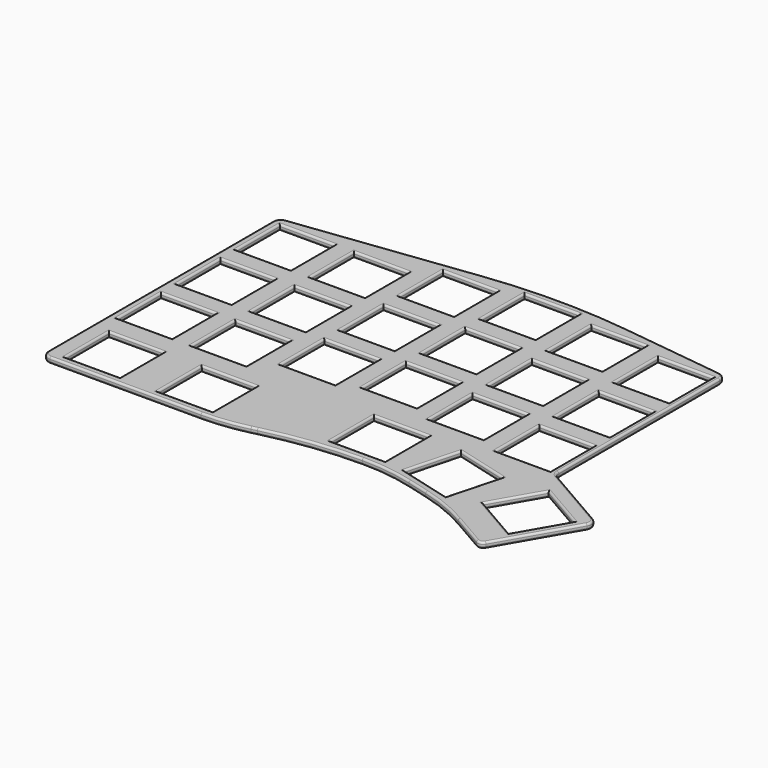
from build123d import *

# Parameters (mm, degrees)
SKETCH_W  = 14
SKETCH_H  = 14
PAD_DEPTH = 1.5
FILLET_R  = 0.5


with BuildPart() as part:
    # Sketch → Pad (new body)
    with BuildSketch(Plane.XY):
        with BuildLine():
            ThreePointArc((48.62709, -13.351208), (48.895039, -14.351208), (49.62709, -15.083258))
            Line((66.435088, -24.787361), (49.62709, -15.083258))
            ThreePointArc((67.167139, -27.519412), (67.36694, -26.001774), (66.435088, -24.787361))
            Line((67.167139, -27.519412), (56.328837, -46.291901))
            ThreePointArc((54.279799, -46.84094), (55.418027, -46.99079), (56.328837, -46.291901))
            Line((54.279799, -46.84094), (45.622406, -41.842592))
            ThreePointArc((45.622406, -41.842592), (39.580603, -38.863104), (33.201587, -36.69772))
            Line((27.717524, -35.22827), (33.201587, -36.69772))
            ThreePointArc((27.717524, -35.22827), (21.110442, -33.914039), (14.388344, -33.47345))
            ThreePointArc((14.388344, -33.47345), (2.059838, -34.220472), (-10.087195, -36.456465))
            Line((-11.463942, -36.797818), (-10.087195, -36.456465))
            ThreePointArc((-23.135716, -38.2232), (-17.256473, -37.865536), (-11.463942, -36.797818))
            Line((-23.135716, -38.2232), (-61.87291, -38.2232))
            ThreePointArc((-63.87291, -36.2232), (-63.287124, -37.637413), (-61.87291, -38.2232))
            Line((-63.87291, -36.2232), (-63.87291, 35.731795))
            ThreePointArc((-62.120967, 37.716353), (-63.372262, 37.055405), (-63.87291, 35.731795))
            Line((-62.120967, 37.716353), (-16.291114, 43.444783))
            ThreePointArc((20.545293, 43.444783), (2.12709, 44.591399), (-16.291114, 43.444783))
            Line((20.545293, 43.444783), (46.875146, 40.153724))
            ThreePointArc((48.62709, 38.169167), (48.126442, 39.492777), (46.875146, 40.153724))
            Line((48.62709, 38.169167), (48.62709, -13.351208))
        make_face()
        with Locations((2.12709, 35.56339)):
            Rectangle(SKETCH_W, SKETCH_H, mode=Mode.SUBTRACT)
        with Locations((-16.87291, 33.188515)):
            Rectangle(SKETCH_W, SKETCH_H, mode=Mode.SUBTRACT)
        with Locations((21.12709, 33.188515)):
            Rectangle(SKETCH_W, SKETCH_H, mode=Mode.SUBTRACT)
        with Locations((40.12709, 30.81364)):
            Rectangle(SKETCH_W, SKETCH_H, mode=Mode.SUBTRACT)
        with Locations((-54.87291, 28.438765)):
            Rectangle(SKETCH_W, SKETCH_H, mode=Mode.SUBTRACT)
        with Locations((-35.87291, 28.438765)):
            Rectangle(SKETCH_W, SKETCH_H, mode=Mode.SUBTRACT)
        with Locations((2.12709, 16.56439)):
            Rectangle(SKETCH_W, SKETCH_H, mode=Mode.SUBTRACT)
        with Locations((-16.87291, 14.189515)):
            Rectangle(SKETCH_W, SKETCH_H, mode=Mode.SUBTRACT)
        with Locations((21.12709, 14.189515)):
            Rectangle(SKETCH_W, SKETCH_H, mode=Mode.SUBTRACT)
        with Locations((40.12709, 11.81464)):
            Rectangle(SKETCH_W, SKETCH_H, mode=Mode.SUBTRACT)
        with Locations((-54.87291, 9.439765)):
            Rectangle(SKETCH_W, SKETCH_H, mode=Mode.SUBTRACT)
        with Locations((-35.87291, 9.439765)):
            Rectangle(SKETCH_W, SKETCH_H, mode=Mode.SUBTRACT)
        with Locations((2.12709, -2.43461)):
            Rectangle(SKETCH_W, SKETCH_H, mode=Mode.SUBTRACT)
        with Locations((21.12709, -4.809485)):
            Rectangle(SKETCH_W, SKETCH_H, mode=Mode.SUBTRACT)
        with Locations((-16.87291, -4.811385)):
            Rectangle(SKETCH_W, SKETCH_H, mode=Mode.SUBTRACT)
        with Locations((40.12709, -7.18436)):
            Rectangle(SKETCH_W, SKETCH_H, mode=Mode.SUBTRACT)
        with Locations((-54.87291, -9.559235)):
            Rectangle(SKETCH_W, SKETCH_H, mode=Mode.SUBTRACT)
        with Locations((-35.87291, -9.559235)):
            Rectangle(SKETCH_W, SKETCH_H, mode=Mode.SUBTRACT)
        with Locations((11.62709, -24.47345)):
            Rectangle(SKETCH_W, SKETCH_H, mode=Mode.SUBTRACT)
        with Locations((-52.49791, -29.2232)):
            Rectangle(SKETCH_W, SKETCH_H, mode=Mode.SUBTRACT)
        with Locations((-28.74791, -29.2232)):
            Rectangle(SKETCH_W, SKETCH_H, mode=Mode.SUBTRACT)
        Polygon((27.763243, -18.676101), (41.286204, -22.299568), (37.662738, -35.822529), (24.139776, -32.199063), align=None, mode=Mode.SUBTRACT)
        Polygon((64.435088, -28.251462), (57.435088, -40.375818), (45.310732, -33.375818), (52.310732, -21.251462), align=None, mode=Mode.SUBTRACT)
    extrude(amount=PAD_DEPTH)

    # Fillet
    fillet_edges = [part.edges().sort_by_distance(p)[0] for p in [
        (48.62709, 12.40898, 1.5),
        (48.895039, -14.351208, 1.5),
        (58.031089, -19.93531, 1.5),
        (67.36694, -26.001774, 1.5),
        (61.747988, -36.905657, 1.5),
        (55.418027, -46.99079, 1.5),
        (49.951103, -44.341766, 1.5),
        (39.580603, -38.863104, 1.5),
        (30.459556, -35.962995, 1.5),
        (21.110442, -33.914039, 1.5),
        (2.059838, -34.220472, 1.5),
        (-10.775569, -36.627141, 1.5),
        (-17.256473, -37.865536, 1.5),
        (-42.504313, -38.2232, 1.5),
        (-63.287124, -37.637413, 1.5),
        (-63.87291, -0.245702, 1.5),
        (-63.372262, 37.055405, 1.5),
        (-39.20604, 40.580568, 1.5),
        (2.12709, 44.591399, 1.5),
        (33.71022, 41.799254, 1.5),
        (48.126442, 39.492777, 1.5),
        (58.37291, -24.751462, 1.5),
        (60.935088, -34.31364, 1.5),
        (51.37291, -36.875818, 1.5),
        (48.810732, -27.31364, 1.5),
        (25.95151, -25.437582, 1.5),
        (34.524724, -20.487834, 1.5),
        (39.474471, -29.061048, 1.5),
        (30.901257, -34.010796, 1.5),
        (-35.74791, -29.2232, 1.5),
        (-28.74791, -22.2232, 1.5),
        (-21.74791, -29.2232, 1.5),
        (-28.74791, -36.2232, 1.5),
        (-42.87291, -9.559235, 1.5),
        (-35.87291, -2.559235, 1.5),
        (-28.87291, -9.559235, 1.5),
        (-35.87291, -16.559235, 1.5),
        (-23.87291, -4.811385, 1.5),
        (-16.87291, 2.188615, 1.5),
        (-9.87291, -4.811385, 1.5),
        (-16.87291, -11.811385, 1.5),
        (-59.49791, -29.2232, 1.5),
        (-52.49791, -22.2232, 1.5),
        (-45.49791, -29.2232, 1.5),
        (-52.49791, -36.2232, 1.5),
        (-61.87291, -9.559235, 1.5),
        (-54.87291, -2.559235, 1.5),
        (-47.87291, -9.559235, 1.5),
        (-54.87291, -16.559235, 1.5),
        (-4.87291, 16.56439, 1.5),
        (2.12709, 23.56439, 1.5),
        (9.12709, 16.56439, 1.5),
        (2.12709, 9.56439, 1.5),
        (-42.87291, 28.438765, 1.5),
        (-35.87291, 35.438765, 1.5),
        (-28.87291, 28.438765, 1.5),
        (-35.87291, 21.438765, 1.5),
        (14.12709, -4.809485, 1.5),
        (21.12709, 2.190515, 1.5),
        (28.12709, -4.809485, 1.5),
        (21.12709, -11.809485, 1.5),
        (-4.87291, -2.43461, 1.5),
        (2.12709, 4.56539, 1.5),
        (9.12709, -2.43461, 1.5),
        (2.12709, -9.43461, 1.5),
        (-42.87291, 9.439765, 1.5),
        (-35.87291, 16.439765, 1.5),
        (-28.87291, 9.439765, 1.5),
        (-35.87291, 2.439765, 1.5),
        (33.12709, 11.81464, 1.5),
        (40.12709, 18.81464, 1.5),
        (47.12709, 11.81464, 1.5),
        (40.12709, 4.81464, 1.5),
        (14.12709, 14.189515, 1.5),
        (21.12709, 21.189515, 1.5),
        (28.12709, 14.189515, 1.5),
        (21.12709, 7.189515, 1.5),
        (-23.87291, 14.189515, 1.5),
        (-16.87291, 21.189515, 1.5),
        (-9.87291, 14.189515, 1.5),
        (-16.87291, 7.189515, 1.5),
        (-61.87291, 28.438765, 1.5),
        (-54.87291, 35.438765, 1.5),
        (-47.87291, 28.438765, 1.5),
        (-54.87291, 21.438765, 1.5),
        (33.12709, 30.81364, 1.5),
        (40.12709, 37.81364, 1.5),
        (47.12709, 30.81364, 1.5),
        (40.12709, 23.81364, 1.5),
        (14.12709, 33.188515, 1.5),
        (21.12709, 40.188515, 1.5),
        (28.12709, 33.188515, 1.5),
        (21.12709, 26.188515, 1.5),
        (-23.87291, 33.188515, 1.5),
        (-16.87291, 40.188515, 1.5),
        (-9.87291, 33.188515, 1.5),
        (-16.87291, 26.188515, 1.5),
        (-4.87291, 35.56339, 1.5),
        (2.12709, 42.56339, 1.5),
        (9.12709, 35.56339, 1.5),
        (2.12709, 28.56339, 1.5),
        (4.62709, -24.47345, 1.5),
        (11.62709, -17.47345, 1.5),
        (18.62709, -24.47345, 1.5),
        (11.62709, -31.47345, 1.5),
        (33.12709, -7.18436, 1.5),
        (40.12709, -0.18436, 1.5),
        (47.12709, -7.18436, 1.5),
        (40.12709, -14.18436, 1.5),
        (-61.87291, 9.439765, 1.5),
        (-54.87291, 16.439765, 1.5),
        (-47.87291, 9.439765, 1.5),
        (-54.87291, 2.439765, 1.5),
        (48.62709, 12.40898, 0),
        (48.895039, -14.351208, 0),
        (58.031089, -19.93531, 0),
        (67.36694, -26.001774, 0),
        (61.747988, -36.905657, 0),
        (55.418027, -46.99079, 0),
        (49.951103, -44.341766, 0),
        (39.580603, -38.863104, 0),
        (30.459556, -35.962995, 0),
        (21.110442, -33.914039, 0),
        (2.059838, -34.220472, 0),
        (-10.775569, -36.627141, 0),
        (-17.256473, -37.865536, 0),
        (-42.504313, -38.2232, 0),
        (-63.287124, -37.637413, 0),
        (-63.87291, -0.245702, 0),
        (-63.372262, 37.055405, 0),
        (-39.20604, 40.580568, 0),
        (2.12709, 44.591399, 0),
        (33.71022, 41.799254, 0),
        (48.126442, 39.492777, 0),
        (58.37291, -24.751462, 0),
        (60.935088, -34.31364, 0),
        (51.37291, -36.875818, 0),
        (48.810732, -27.31364, 0),
        (25.95151, -25.437582, 0),
        (34.524724, -20.487834, 0),
        (39.474471, -29.061048, 0),
        (30.901257, -34.010796, 0),
        (-35.74791, -29.2232, 0),
        (-28.74791, -22.2232, 0),
        (-21.74791, -29.2232, 0),
        (-28.74791, -36.2232, 0),
        (-42.87291, -9.559235, 0),
        (-35.87291, -2.559235, 0),
        (-28.87291, -9.559235, 0),
        (-35.87291, -16.559235, 0),
        (-23.87291, -4.811385, 0),
        (-16.87291, 2.188615, 0),
        (-9.87291, -4.811385, 0),
        (-16.87291, -11.811385, 0),
        (-59.49791, -29.2232, 0),
        (-52.49791, -22.2232, 0),
        (-45.49791, -29.2232, 0),
        (-52.49791, -36.2232, 0),
        (-61.87291, -9.559235, 0),
        (-54.87291, -2.559235, 0),
        (-47.87291, -9.559235, 0),
        (-54.87291, -16.559235, 0),
        (-4.87291, 16.56439, 0),
        (2.12709, 23.56439, 0),
        (9.12709, 16.56439, 0),
        (2.12709, 9.56439, 0),
        (-42.87291, 28.438765, 0),
        (-35.87291, 35.438765, 0),
        (-28.87291, 28.438765, 0),
        (-35.87291, 21.438765, 0),
        (14.12709, -4.809485, 0),
        (21.12709, 2.190515, 0),
        (28.12709, -4.809485, 0),
        (21.12709, -11.809485, 0),
        (-4.87291, -2.43461, 0),
        (2.12709, 4.56539, 0),
        (9.12709, -2.43461, 0),
        (2.12709, -9.43461, 0),
        (-42.87291, 9.439765, 0),
        (-35.87291, 16.439765, 0),
        (-28.87291, 9.439765, 0),
        (-35.87291, 2.439765, 0),
        (33.12709, 11.81464, 0),
        (40.12709, 18.81464, 0),
        (47.12709, 11.81464, 0),
        (40.12709, 4.81464, 0),
        (14.12709, 14.189515, 0),
        (21.12709, 21.189515, 0),
        (28.12709, 14.189515, 0),
        (21.12709, 7.189515, 0),
        (-23.87291, 14.189515, 0),
        (-16.87291, 21.189515, 0),
        (-9.87291, 14.189515, 0),
        (-16.87291, 7.189515, 0),
        (-61.87291, 28.438765, 0),
        (-54.87291, 35.438765, 0),
        (-47.87291, 28.438765, 0),
        (-54.87291, 21.438765, 0),
        (33.12709, 30.81364, 0),
        (40.12709, 37.81364, 0),
        (47.12709, 30.81364, 0),
        (40.12709, 23.81364, 0),
        (14.12709, 33.188515, 0),
        (21.12709, 40.188515, 0),
        (28.12709, 33.188515, 0),
        (21.12709, 26.188515, 0),
        (-23.87291, 33.188515, 0),
        (-16.87291, 40.188515, 0),
        (-9.87291, 33.188515, 0),
        (-16.87291, 26.188515, 0),
        (-4.87291, 35.56339, 0),
        (2.12709, 42.56339, 0),
        (9.12709, 35.56339, 0),
        (2.12709, 28.56339, 0),
        (4.62709, -24.47345, 0),
        (11.62709, -17.47345, 0),
        (18.62709, -24.47345, 0),
        (11.62709, -31.47345, 0),
        (33.12709, -7.18436, 0),
        (40.12709, -0.18436, 0),
        (47.12709, -7.18436, 0),
        (40.12709, -14.18436, 0),
        (-61.87291, 9.439765, 0),
        (-54.87291, 16.439765, 0),
        (-47.87291, 9.439765, 0),
        (-54.87291, 2.439765, 0),
    ]]
    fillet(fillet_edges, radius=FILLET_R)


solid = part.part
